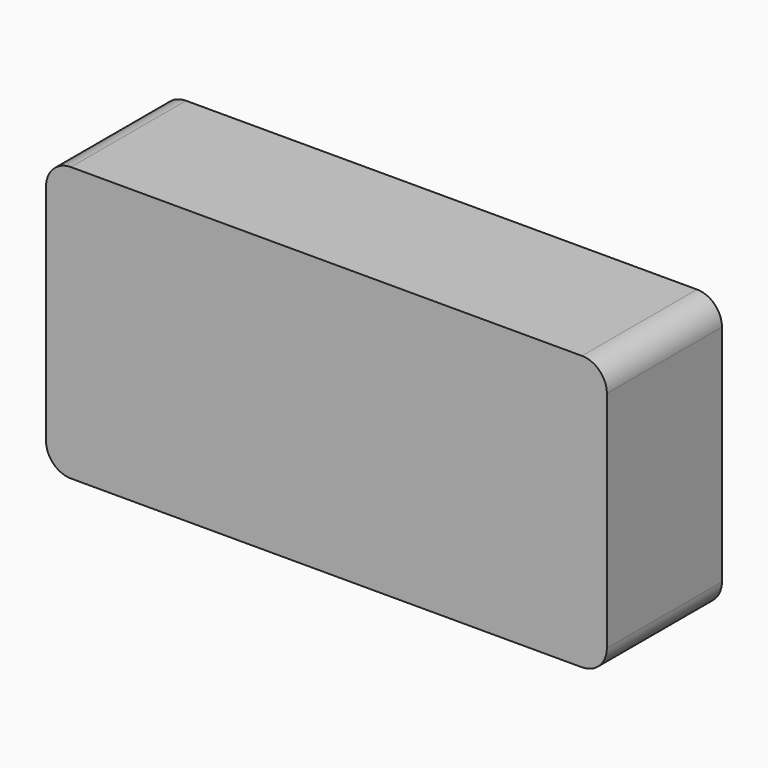
from build123d import *

# Parameters (mm, degrees)
F1_DEPTH = 11.811
F3_DEPTH = 1.4224
F5_DEPTH = 1.4224


with BuildPart() as f1:
    # F0 (on Front) → F1 (new body)
    with BuildSketch(Plane.XZ):
        with BuildLine():
            Line((54.61, 0), (2.54, 0))
            ThreePointArc((2.54, 0), (0.743949, -0.743949), (0, -2.54))
            Line((0, -2.54), (0, -25.4))
            ThreePointArc((0, -25.4), (0.743949, -27.196051), (2.54, -27.94))
            Line((2.54, -27.94), (54.61, -27.94))
            ThreePointArc((54.61, -27.94), (56.406051, -27.196051), (57.15, -25.4))
            Line((57.15, -25.4), (57.15, -2.54))
            ThreePointArc((57.15, -2.54), (56.406051, -0.743949), (54.61, 0))
        make_face()
        with BuildLine():
            ThreePointArc((5.08, -4.2672), (5.451974, -3.369174), (6.35, -2.9972))
            Line((6.35, -2.9972), (50.8, -2.9972))
            ThreePointArc((50.8, -2.9972), (51.698026, -3.369174), (52.07, -4.2672))
            Line((52.07, -4.2672), (52.07, -23.749))
            ThreePointArc((52.07, -23.749), (51.698026, -24.647026), (50.8, -25.019))
            Line((50.8, -25.019), (6.35, -25.019))
            ThreePointArc((6.35, -25.019), (5.451974, -24.647026), (5.08, -23.749))
            Line((5.08, -23.749), (5.08, -4.2672))
        make_face(mode=Mode.SUBTRACT)
    extrude(amount=F1_DEPTH)

    # F2 (on face) → F3 (join)
    with BuildSketch(Plane(origin=(0, 0, 0), x_dir=(-1, 0, 0), z_dir=(0, 1, 0))):
        with BuildLine():
            ThreePointArc((0, -2.54), (-0.743949, -0.743949), (-2.54, 0))
            Line((-2.54, 0), (-54.61, 0))
            ThreePointArc((-54.61, 0), (-56.406051, -0.743949), (-57.15, -2.54))
            Line((-57.15, -2.54), (-57.15, -25.4))
            ThreePointArc((-57.15, -25.4), (-56.406051, -27.196051), (-54.61, -27.94))
            Line((-54.61, -27.94), (-2.54, -27.94))
            ThreePointArc((-2.54, -27.94), (-0.743949, -27.196051), (0, -25.4))
            Line((0, -25.4), (0, -2.54))
        make_face()
    extrude(amount=F3_DEPTH)

    # F4 (on face) → F5 (join)
    with BuildSketch(Plane.XZ.offset(11.811)):
        with BuildLine():
            Line((54.61, 0), (2.54, 0))
            ThreePointArc((2.54, 0), (0.743949, -0.743949), (0, -2.54))
            Line((0, -2.54), (0, -25.4))
            ThreePointArc((0, -25.4), (0.743949, -27.196051), (2.54, -27.94))
            Line((2.54, -27.94), (54.61, -27.94))
            ThreePointArc((54.61, -27.94), (56.406051, -27.196051), (57.15, -25.4))
            Line((57.15, -25.4), (57.15, -2.54))
            ThreePointArc((57.15, -2.54), (56.406051, -0.743949), (54.61, 0))
        make_face()
    extrude(amount=F5_DEPTH)


solid = f1.part
